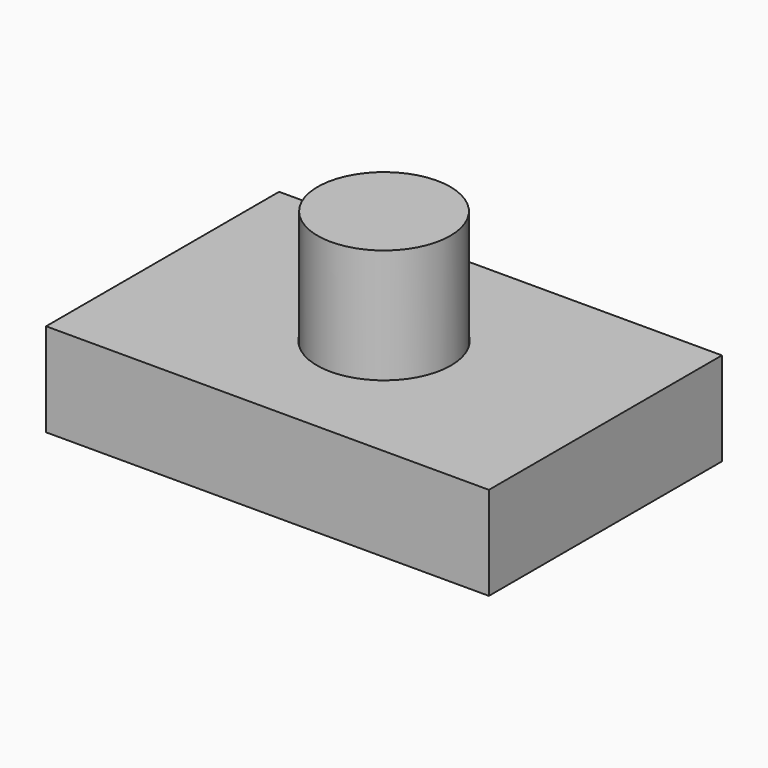
from build123d import *

# Parameters (mm, degrees)
F0_W     = 114.446304
F0_H     = 75.27341
F0_R     = 17.301115
F1_DEPTH = 24.13
F2_R     = 17.143059
F3_DEPTH = 53.594


with BuildPart() as f1:
    # F0 (on Top) → F1 (new body)
    with BuildSketch(Plane.XY):
        Rectangle(F0_W, F0_H)
        Circle(F0_R, mode=Mode.SUBTRACT)
    extrude(amount=F1_DEPTH)


with BuildPart() as f3:
    # F2 (on Top) → F3 (new body)
    with BuildSketch(Plane.XY):
        Circle(F2_R)
    extrude(amount=F3_DEPTH)


solid = Compound([f1.part, f3.part])
